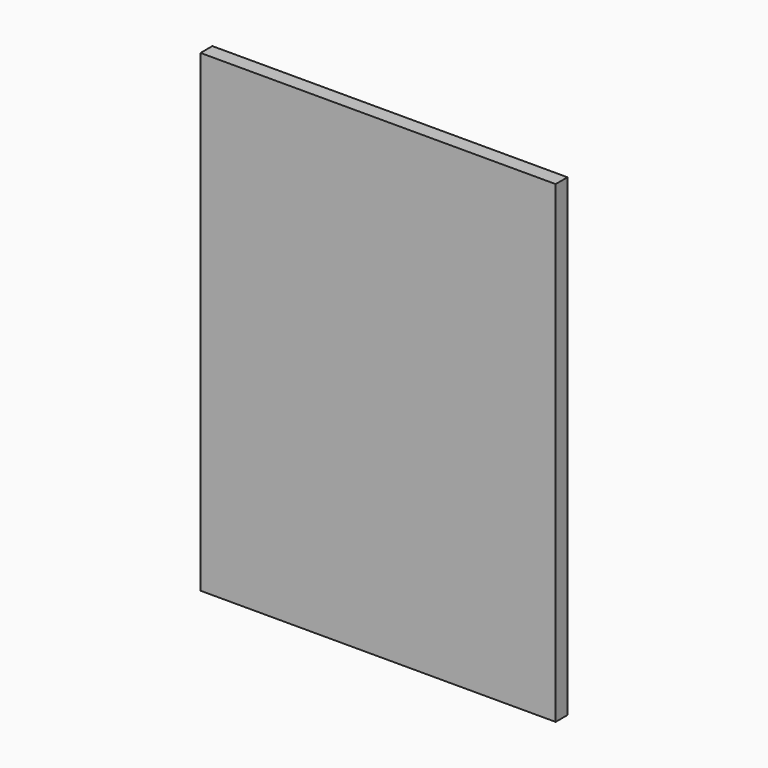
from build123d import *

# Parameters (mm, degrees)
F0_W     = 152.4
F0_H     = 203.2
F1_DEPTH = 6.35
F5_DEPTH = 3
F6_DEPTH = 3
F7_DEPTH = 3
F9_DEPTH = 3


with BuildPart() as f1:
    # F0 (on Front) → F1 (new body)
    with BuildSketch(Plane.XZ):
        Rectangle(F0_W, F0_H)
    extrude(amount=F1_DEPTH)

    # F4 (on face) → F5 (cut)
    with BuildSketch(Plane(origin=(0, 0, 0), x_dir=(-1, 0, 0), z_dir=(0, 1, 0))):
        with BuildLine():
            ThreePointArc((-58.874667, -80.669072), (-60.374667, -82.169072), (-58.874667, -83.669072))
            Line((-58.874667, -83.669072), (-58.874667, -82.169072))
            Line((-58.874667, -82.169072), (-58.874667, -80.669072))
        make_face()
        with BuildLine():
            ThreePointArc((-57.374667, -69.469072), (-59.935327, -68.408412), (-58.874667, -70.969072))
            ThreePointArc((-58.874667, -70.969072), (-57.814007, -70.529732), (-57.374667, -69.469072))
        make_face()
        with BuildLine():
            Line((-58.874667, -82.169072), (-58.874667, -83.669072))
            ThreePointArc((-58.874667, -83.669072), (-57.814007, -83.229732), (-57.374667, -82.169072))
            ThreePointArc((-57.374667, -82.169072), (-57.814007, -81.108412), (-58.874667, -80.669072))
            Line((-58.874667, -80.669072), (-58.874667, -82.169072))
        make_face()
    extrude(amount=-F5_DEPTH, mode=Mode.SUBTRACT)

    # F3 (on face) → F6 (cut)
    with BuildSketch(Plane(origin=(0, 0, 0), x_dir=(-1, 0, 0), z_dir=(0, 1, 0))):
        with BuildLine():
            ThreePointArc((59.134699, -81.667865), (57.634699, -83.167865), (59.134699, -84.667865))
            Line((59.134699, -84.667865), (59.134699, -83.167865))
            Line((59.134699, -83.167865), (59.134699, -81.667865))
        make_face()
        with BuildLine():
            ThreePointArc((60.634699, -70.467865), (58.074039, -69.407205), (59.134699, -71.967865))
            ThreePointArc((59.134699, -71.967865), (60.19536, -71.528525), (60.634699, -70.467865))
        make_face()
        with BuildLine():
            Line((59.134699, -83.167865), (59.134699, -84.667865))
            ThreePointArc((59.134699, -84.667865), (60.19536, -84.228525), (60.634699, -83.167865))
            ThreePointArc((60.634699, -83.167865), (60.19536, -82.107205), (59.134699, -81.667865))
            Line((59.134699, -81.667865), (59.134699, -83.167865))
        make_face()
    extrude(amount=-F6_DEPTH, mode=Mode.SUBTRACT)

    # F2 (on face) → F7 (cut)
    with BuildSketch(Plane(origin=(0, 0, 0), x_dir=(-1, 0, 0), z_dir=(0, 1, 0))):
        with BuildLine():
            ThreePointArc((-56.943826, 82.55), (-57.383166, 83.61066), (-58.443826, 84.05))
            Line((-58.443826, 84.05), (-58.443826, 82.55))
            Line((-58.443826, 82.55), (-58.443826, 81.05))
            ThreePointArc((-58.443826, 81.05), (-57.383166, 81.48934), (-56.943826, 82.55))
        make_face()
        with BuildLine():
            ThreePointArc((-56.943826, 69.85), (-57.383166, 70.91066), (-58.443826, 71.35))
            ThreePointArc((-58.443826, 71.35), (-59.504486, 68.78934), (-56.943826, 69.85))
        make_face()
        with BuildLine():
            Line((-58.443826, 82.55), (-58.443826, 84.05))
            ThreePointArc((-58.443826, 84.05), (-59.943826, 82.55), (-58.443826, 81.05))
            Line((-58.443826, 81.05), (-58.443826, 82.55))
        make_face()
    extrude(amount=-F7_DEPTH, mode=Mode.SUBTRACT)

    # F8 (on face) → F9 (cut)
    with BuildSketch(Plane(origin=(0, 0, 0), x_dir=(-1, 0, 0), z_dir=(0, 1, 0))):
        with BuildLine():
            ThreePointArc((61.254328, 82.550315), (60.811933, 83.614022), (59.745698, 84.05029))
            Line((59.745698, 84.05029), (59.754328, 82.550315))
            Line((59.754328, 82.550315), (59.747856, 81.050329))
            ThreePointArc((59.747856, 81.050329), (60.812698, 81.487369), (61.254328, 82.550315))
        make_face()
        with BuildLine():
            ThreePointArc((61.199527, 69.850434), (60.762473, 70.908803), (59.705999, 71.35042))
            ThreePointArc((59.705999, 71.35042), (58.636581, 68.792064), (61.199527, 69.850434))
        make_face()
        with BuildLine():
            Line((59.754328, 82.550315), (59.745698, 84.05029))
            ThreePointArc((59.745698, 84.05029), (58.254329, 82.549237), (59.747856, 81.050329))
            Line((59.747856, 81.050329), (59.754328, 82.550315))
        make_face()
    extrude(amount=-F9_DEPTH, mode=Mode.SUBTRACT)


solid = f1.part
